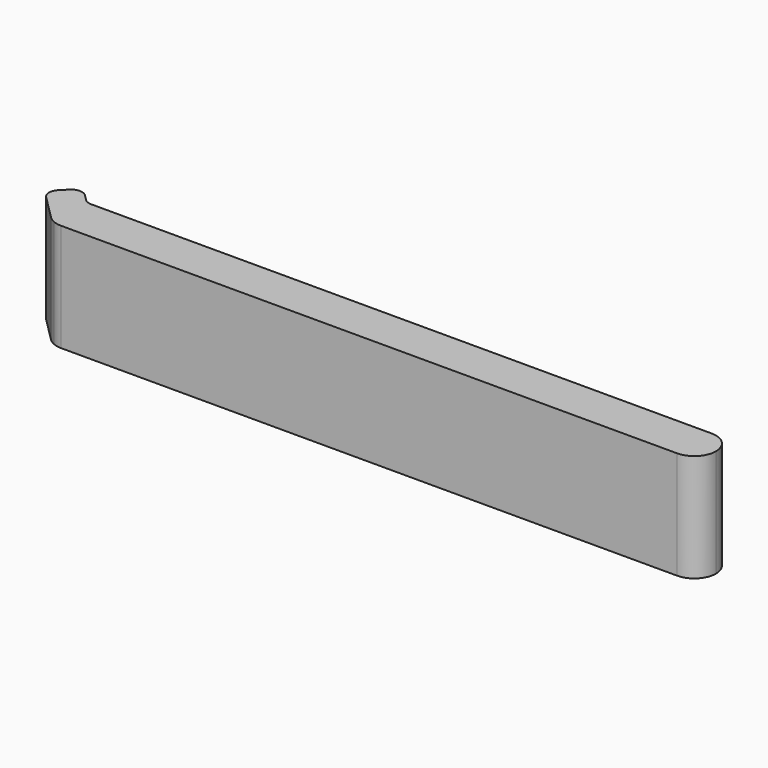
from build123d import *

# Parameters (mm, degrees)
F1_DEPTH = 10


with BuildPart() as f1:
    # F0 (on Top) → F1 (new body)
    with BuildSketch(Plane.XY):
        with BuildLine():
            ThreePointArc((0, 0.179641), (0.404587, 0.045426), (0.828427, 0))
            Line((0.828427, 0), (58, 0))
            ThreePointArc((58, 0), (59.414214, 0.585786), (60, 2))
            ThreePointArc((60, 2), (59.414214, 3.414214), (58, 4))
            Line((58, 4), (0.414214, 4))
            ThreePointArc((0.414214, 4), (0.03153, 4.07612), (-0.292893, 4.292893))
            Line((-0.292893, 4.292893), (-0.828427, 4.828427))
            ThreePointArc((-0.828427, 4.828427), (-1.535534, 5.12132), (-2.242641, 4.828427))
            Line((-2.242641, 4.828427), (-2.828427, 4.242641))
            ThreePointArc((-2.828427, 4.242641), (-3.12132, 3.535534), (-2.828427, 2.828427))
            Line((-2.828427, 2.828427), (-0.585786, 0.585786))
            ThreePointArc((-0.585786, 0.585786), (-0.311133, 0.356406), (0, 0.179641))
        make_face()
    extrude(amount=F1_DEPTH)


solid = f1.part
